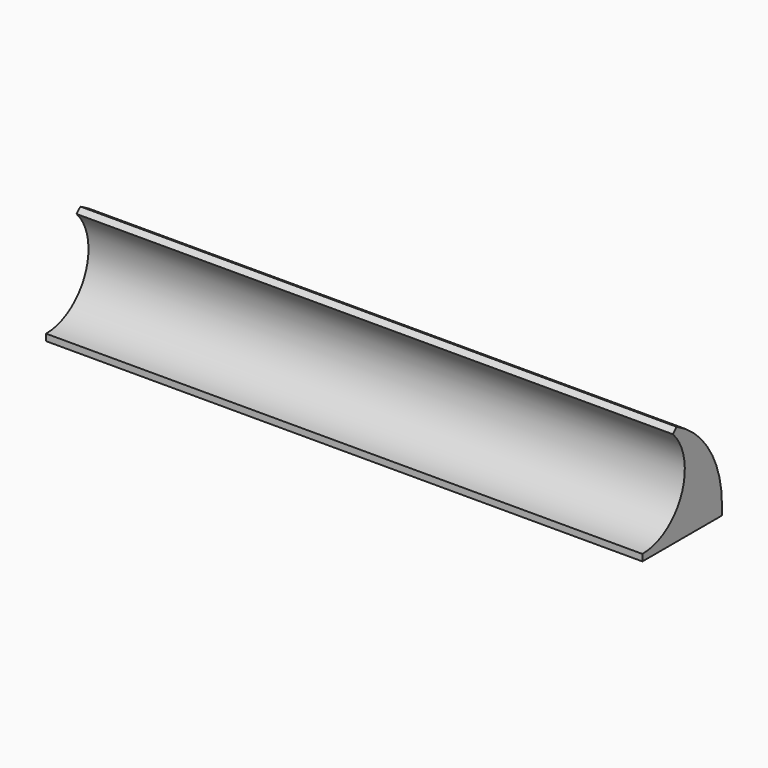
from build123d import *

# Parameters (mm, degrees)
PAD_DEPTH            = 180
SKETCH001_R          = 4.5
POCKET_DEPTH         = 4
LINEARPATTERN_COUNT  = 3
LINEARPATTERN_PITCH  = 60
BODY_PLACEMENT_ANGLE = 90


with BuildPart() as part:
    # Sketch → Pad (new body)
    with BuildSketch(Plane.YZ):
        with BuildLine():
            Line((0, 30), (0, 0))
            Line((0, 0), (3, 0))
            ThreePointArc((3, 0), (19.18792, 4.611843), (30.514835, 17.0625))
            Line((29.124298, 18.5), (30.514835, 17.0625))
            ThreePointArc((2, 30), (11.754552, 15.269271), (29.124298, 18.5))
            Line((0, 30), (2, 30))
        make_face()
    extrude(amount=PAD_DEPTH)

    # Sketch001 (on Face1 of Pad) → Pocket (cut)
    with BuildSketch(Plane(origin=(0, 0, 0), x_dir=(0, 0, -1), z_dir=(0, -1, 0))):
        with Locations((-10, 30)):
            Circle(SKETCH001_R)
    pocket = extrude(amount=-POCKET_DEPTH, mode=Mode.SUBTRACT)

    # LinearPattern: Pocket ×3
    with Locations(*[(i * LINEARPATTERN_PITCH, 0, 0) for i in range(1, LINEARPATTERN_COUNT)]):
        add(pocket, mode=Mode.SUBTRACT)


with BuildPart() as part_1:
    # Body placement: moved
    add(part.part.rotate(Axis((0, 0, 0), (1, 0, 0)), BODY_PLACEMENT_ANGLE))


solid = part_1.part
